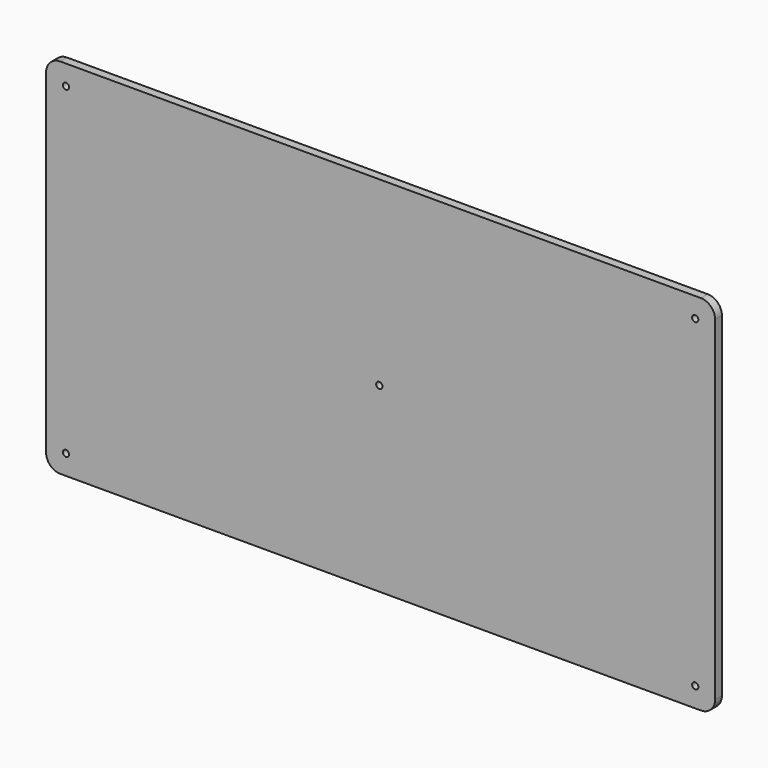
from build123d import *

# Parameters (mm, degrees)
F1_DEPTH = 3
F2_R     = 1.1
F3_DEPTH = 3.001


with BuildPart() as f1:
    # F0 (on Front) → F1 (new body)
    with BuildSketch(Plane.XZ):
        with BuildLine():
            ThreePointArc((0, 5), (1.464466, 1.464466), (5, 0))
            Line((5, 0), (230.7, 0))
            ThreePointArc((230.7, 0), (234.235534, 1.464466), (235.7, 5))
            Line((235.7, 5), (235.7, 122.9))
            ThreePointArc((235.7, 122.9), (234.235534, 126.435534), (230.7, 127.9))
            Line((230.7, 127.9), (5, 127.9))
            ThreePointArc((5, 127.9), (1.464466, 126.435534), (0, 122.9))
            Line((0, 122.9), (0, 5))
        make_face()
    extrude(amount=F1_DEPTH)

    # F2 (on face) → F3 (cut, through all)
    with BuildSketch(Plane.XZ.offset(3)):
        with Locations((7, 7)):
            Circle(F2_R)
        with Locations((7, 120.9)):
            Circle(F2_R)
        with Locations((228.7, 120.9)):
            Circle(F2_R)
        with Locations((228.7, 7)):
            Circle(F2_R)
        with Locations((117.4, 64)):
            Circle(F2_R)
    extrude(amount=-F3_DEPTH, mode=Mode.SUBTRACT)


solid = f1.part
